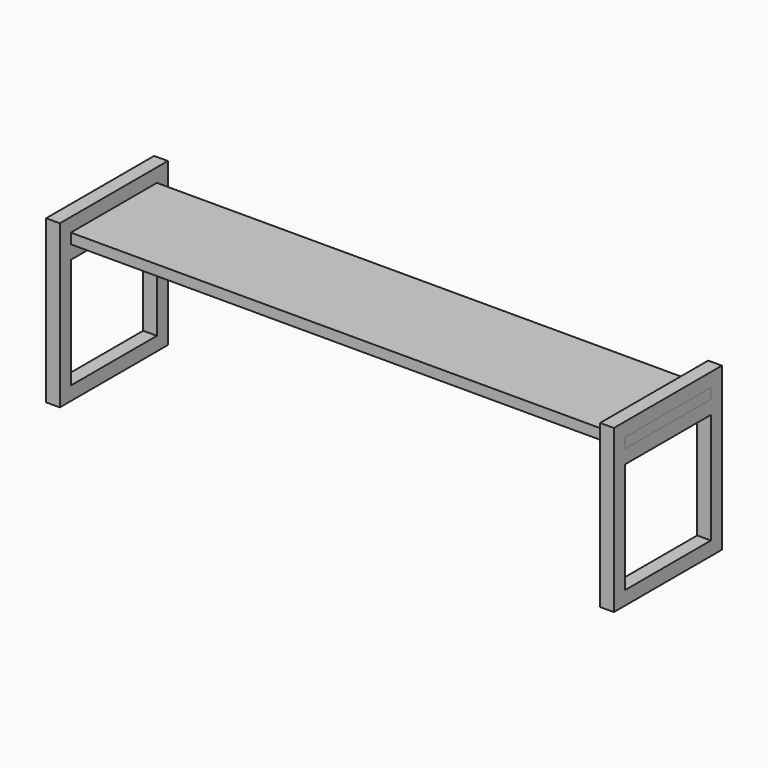
from build123d import *

# Parameters (mm, degrees)
F1_W     = 500
F1_H     = 600
F1_W_2   = 398.4
F1_H_2   = 498.4
F2_DEPTH = 50.8
F3_W     = 398.4
F3_H     = 50.8
F4_DEPTH = 50.8
F6_W     = 398.4
F6_H     = 38.1
F7_DEPTH = 2100


with BuildPart() as f2:
    # F1 (on offset) → F2 (new body)
    with BuildSketch(Plane.YZ.offset(1000)):
        with Locations((-250, 300)):
            Rectangle(F1_W, F1_H)
        with Locations((-250, 300)):
            Rectangle(F1_W_2, F1_H_2, mode=Mode.SUBTRACT)
    extrude(amount=F2_DEPTH)

    # F3 (on offset) → F4 (join)
    with BuildSketch(Plane.YZ.offset(1000)):
        with Locations((-250, 485.7)):
            Rectangle(F3_W, F3_H)
    extrude(amount=F4_DEPTH)


with BuildPart() as f5_1:
    # F5: instance of F2
    add(f2.part.mirror(Plane.YZ))


with BuildPart() as f7:
    # F6 (on face) → F7 (new body)
    with BuildSketch(Plane.YZ.offset(1050.8)):
        with Locations((-250, 530.15)):
            Rectangle(F6_W, F6_H)
    extrude(amount=-F7_DEPTH)


solid = Compound([f2.part, f5_1.part, f7.part])
